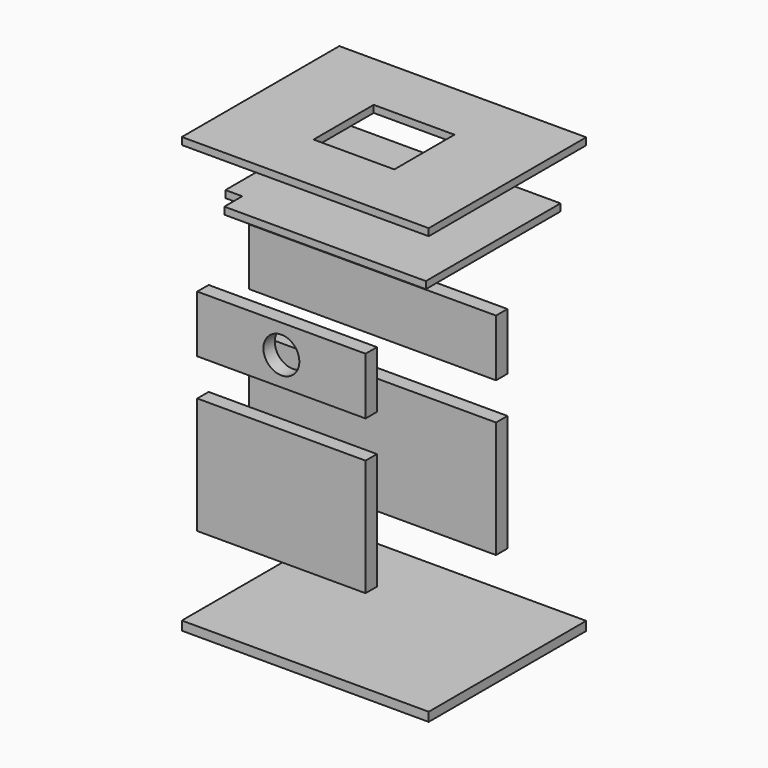
from build123d import *

# Parameters (mm, degrees)
F0_W      = 110
F0_H      = 52
F1_DEPTH  = 6.35
F3_W      = 75
F3_H      = 52
F4_DEPTH  = 6.35
F6_W      = 110
F6_H      = 87.7
F7_DEPTH  = 4
F8_W      = 110
F8_H      = 25.4
F9_DEPTH  = 6.35
F10_W     = 75
F10_H     = 25.4
F10_R     = 8
F11_DEPTH = 6.35
F14_DEPTH = 3.175
F16_W     = 110
F16_H     = 87.7
F16_W_2   = 36
F16_H_2   = 33.5
F17_DEPTH = 3.175


with BuildPart() as f1:
    # F0 (on Front) → F1 (new body)
    with BuildSketch(Plane.XZ):
        Rectangle(F0_W, F0_H)
    extrude(amount=F1_DEPTH)


with BuildPart() as f4:
    # F3 (on offset) → F4 (new body)
    with BuildSketch(Plane.XZ.offset(50.8)):
        Rectangle(F3_W, F3_H)
    extrude(amount=F4_DEPTH)


with BuildPart() as f7:
    # F6 (on offset) → F7 (new body)
    with BuildSketch(Plane.XY.offset(-76.2)):
        Rectangle(F6_W, F6_H)
    extrude(amount=F7_DEPTH)


with BuildPart() as f9:
    # F8 (on Front) → F9 (new body)
    with BuildSketch(Plane.XZ):
        with Locations((0, 55.239461)):
            Rectangle(F8_W, F8_H)
    extrude(amount=F9_DEPTH)


with BuildPart() as f11:
    # F10 (on offset) → F11 (new body)
    with BuildSketch(Plane.XZ.offset(50.8)):
        with Locations((0, 55.239461)):
            Rectangle(F10_W, F10_H)
        with Locations((0, 55.239461)):
            Circle(F10_R, mode=Mode.SUBTRACT)
    extrude(amount=F11_DEPTH)


with BuildPart() as f14:
    # F13 (on offset) → F14 (new body)
    with BuildSketch(Plane.XY.offset(88.9)):
        Polygon((48.650001, -37.500001), (48.650001, 37.500001), (-48.650001, 37.500001), (-48.650001, -27.500001), (-41.150001, -27.500001), (-41.150001, -37.500001), align=None)
    extrude(amount=F14_DEPTH)


with BuildPart() as f17:
    # F16 (on offset) → F17 (new body)
    with BuildSketch(Plane.XY.offset(114.3)):
        Rectangle(F16_W, F16_H)
        Rectangle(F16_W_2, F16_H_2, mode=Mode.SUBTRACT)
    extrude(amount=F17_DEPTH)


solid = Compound([f1.part, f4.part, f7.part, f9.part, f11.part, f14.part, f17.part])
